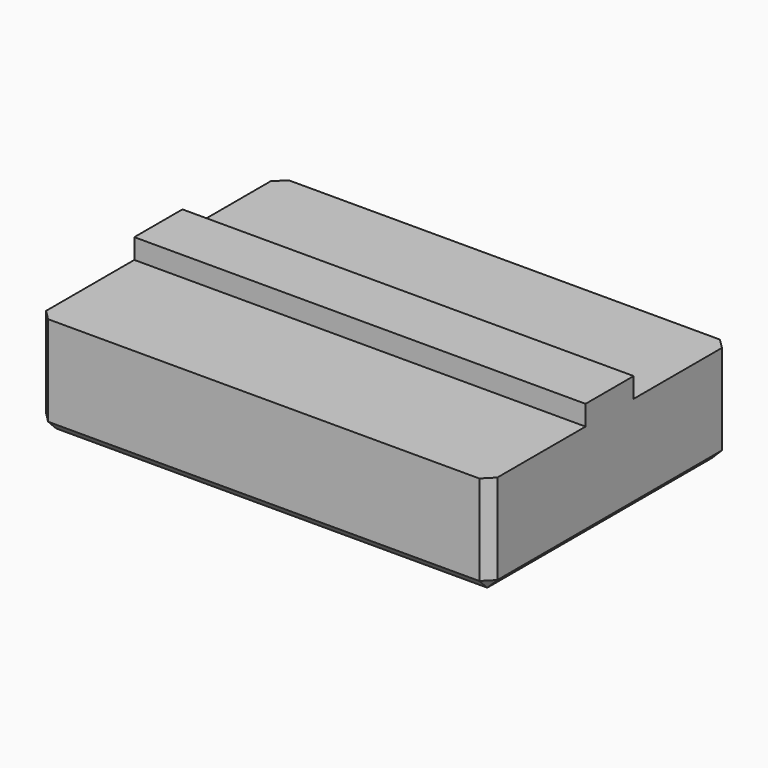
from build123d import *

# Parameters (mm, degrees)
BOX004_W        = 45
BOX004_H        = 6
BOX004_DEPTH    = 12
BOX005_W        = 45
BOX005_H        = 30
BOX005_DEPTH    = 10
CHAMFER001_SIZE = 1


with BuildPart() as cube004:
    # Box004 → Box004 (new body)
    with BuildSketch(Plane(origin=(0, 12, 0), x_dir=(1, 0, 0), z_dir=(0, 0, 1))):
        with Locations((22.5, 3)):
            Rectangle(BOX004_W, BOX004_H)
    extrude(amount=BOX004_DEPTH)


with BuildPart() as f_45_spacer:
    # Box005 → Box005 (new body)
    with BuildSketch(Plane.XY):
        with Locations((22.5, 15)):
            Rectangle(BOX005_W, BOX005_H)
    extrude(amount=BOX005_DEPTH)

    # Fusion001: union Cube004
    add(cube004.part)

    # Chamfer001
    chamfer001_edges = [f_45_spacer.edges().sort_by_distance(p)[0] for p in [
        (0, 6, 0),
        (0, 0, 5),
        (0, 15, 0),
        (45, 6, 0),
        (22.5, 0, 0),
        (45, 0, 5),
        (0, 30, 5),
        (0, 24, 0),
        (45, 15, 0),
        (22.5, 30, 0),
        (45, 30, 5),
        (45, 24, 0),
    ]]
    chamfer(chamfer001_edges, length=CHAMFER001_SIZE)


solid = f_45_spacer.part
